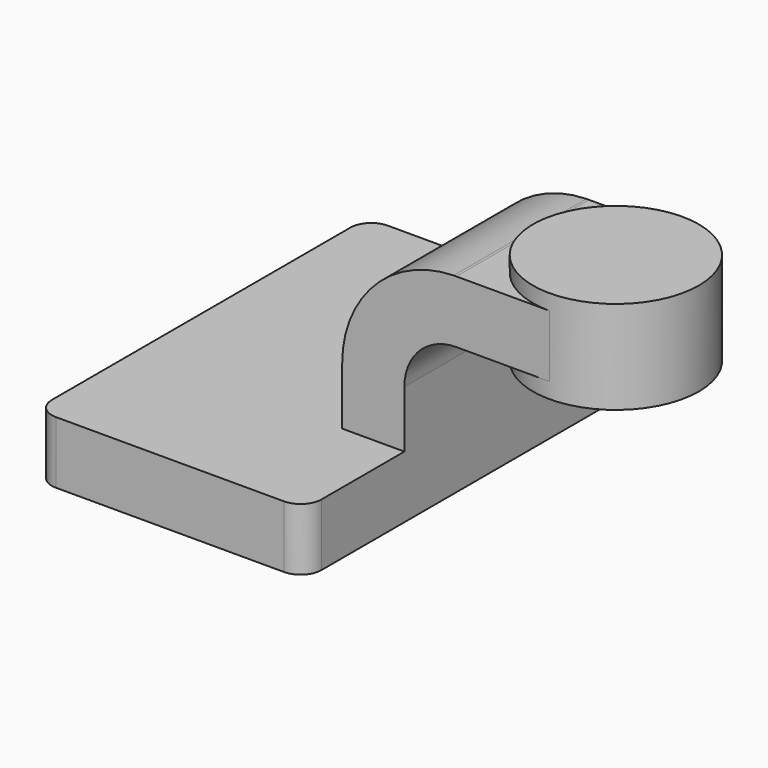
from build123d import *

# Parameters (mm, degrees)
F1_DEPTH = 63.5
F0_W     = 25.4
F0_H     = 19.05
F2_DEPTH = 25.4
F4_R     = 6.35


with BuildPart() as f1:
    # F0 (on Front) → F1 (new body, symmetric)
    with BuildSketch(Plane.XZ):
        Polygon((-41.275, -9.525), (41.275, -9.525), (41.275, 9.525), (22.225, 9.525), (-41.275, 9.525), align=None)
    extrude(amount=F1_DEPTH, both=True)

    # F0 (on Front) → F2 (join, symmetric)
    with BuildSketch(Plane.XZ):
        with BuildLine():
            Line((22.225, 9.525), (41.275, 9.525))
            Line((41.275, 9.525), (41.275, 27.0002))
            ThreePointArc((41.275, 27.0002), (45.9246798487, 38.2255201513), (57.15, 42.8752))
            Line((57.15, 42.8752), (60.325, 42.8752))
            Line((60.325, 42.8752), (60.325, 61.9252))
            Line((60.325, 61.9252), (57.15, 61.9252))
            add(Edge.make_bspline(
                [(56.3590284094, 61.916242), (56.6228100042, 61.9198399191), (56.8864704365, 61.9228263572), (57.15, 61.9252)],
                knots=[110.8800501916, 110.8800501916, 110.8800501916, 110.8800501916, 111.5045361635, 111.5045361635, 111.5045361635, 111.5045361635], degree=3))
            ThreePointArc((56.3590284094, 61.916242), (32.176210662, 51.414652095), (22.225, 27.0002))
            Line((22.225, 27.0002), (22.225, 9.525))
        make_face()
        with Locations((73.025, 52.4002)):
            Rectangle(F0_W, F0_H)
    extrude(amount=F2_DEPTH, both=True)

    # F0 (on Front) → F3 (revolve)
    with BuildSketch(Plane.XZ):
        Polygon((85.725, 61.9252), (85.725, 42.8752), (85.725, 38.1), (111.125, 38.1), (111.125, 66.675), (85.725, 66.675), align=None)
    revolve(axis=Axis((85.725, 0, 52.3875), (0, 0, 1)))

    # F4
    f4_edges = [f1.edges().sort_by_distance(p)[0] for p in [
        (41.275, -63.5, 0),
        (-41.275, -63.5, 0),
        (-41.275, 63.5, 0),
        (41.275, 63.5, 0),
    ]]
    fillet(f4_edges, radius=F4_R)


solid = f1.part
